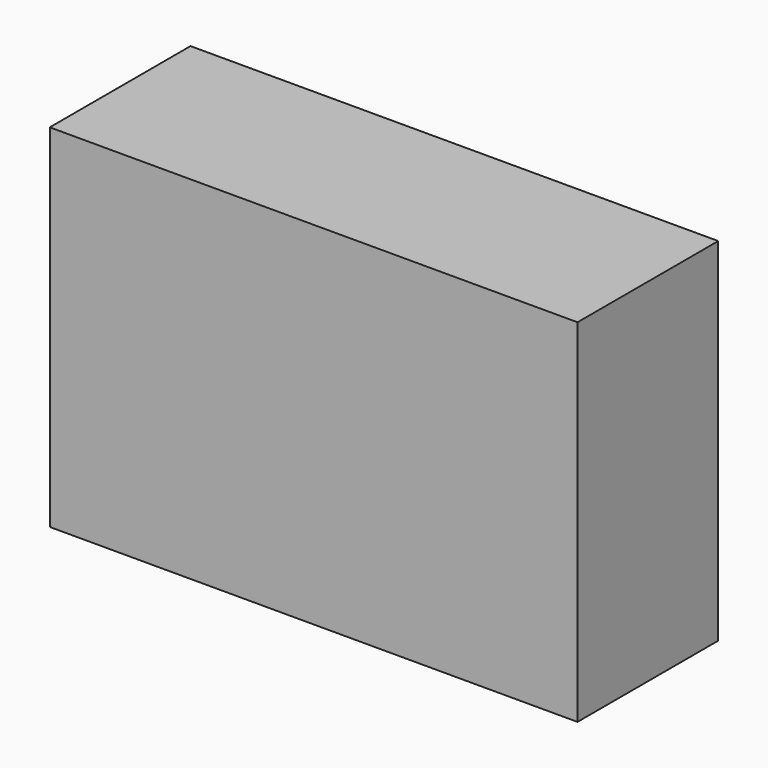
from build123d import *

# Parameters (mm, degrees)
F0_W     = 76.2
F0_H     = 50.8
F1_DEPTH = 12.7
F3_D     = 7.9375
F3_DEPTH = 27.0002
F3_TIP   = 2.3846655818


with BuildPart() as f1:
    # F0 (on Front) → F1 (new body, symmetric)
    with BuildSketch(Plane.XZ):
        Rectangle(F0_W, F0_H)
    extrude(amount=F1_DEPTH, both=True)

    # F3
    with Locations(Plane(origin=(-38.1, 0, 0), x_dir=(0, -1, 0), z_dir=(-1, 0, 0))):
        with Locations((0, 15.875), (0, -15.875)):
            Hole(F3_D / 2, depth=F3_DEPTH)
            with Locations((0, 0, -(F3_DEPTH + F3_TIP / 2))):  # 118° drill point
                Cone(0, F3_D / 2, F3_TIP, mode=Mode.SUBTRACT)


solid = f1.part
